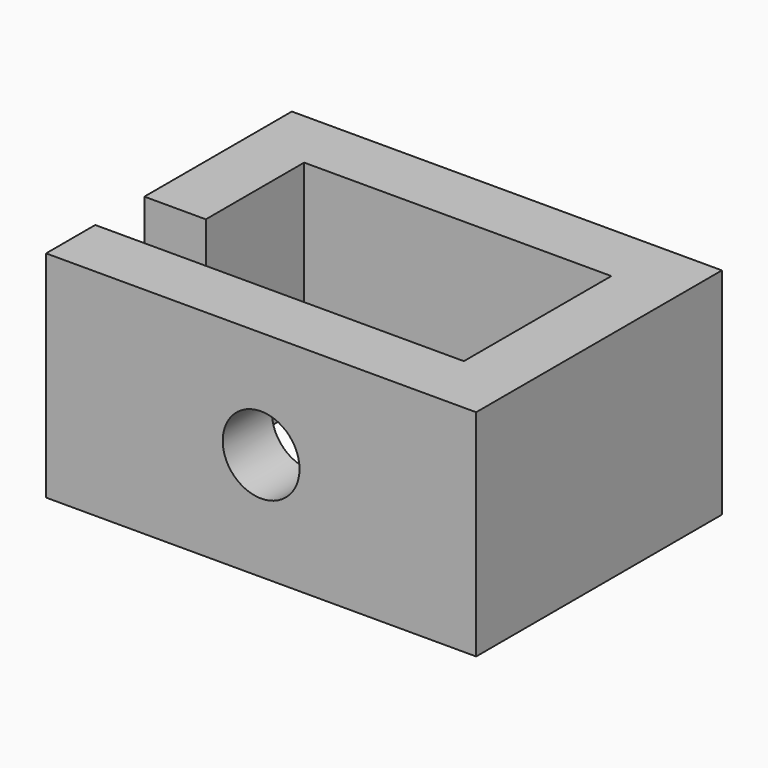
from build123d import *

# Parameters (mm, degrees)
F0_W     = 14
F0_H     = 10
F0_W_2   = 10
F0_H_2   = 6
F1_DEPTH = 7
F2_W     = 2
F2_H     = 2
F3_DEPTH = 10
F4_R     = 1.25
F5_DEPTH = 5


with BuildPart() as f1:
    # F0 (on Top) → F1 (new body)
    with BuildSketch(Plane.XY):
        Rectangle(F0_W, F0_H)
        Rectangle(F0_W_2, F0_H_2, mode=Mode.SUBTRACT)
    extrude(amount=F1_DEPTH)

    # F2 (on face) → F3 (cut)
    with BuildSketch(Plane.XY.offset(7)):
        with Locations((-6, -2)):
            Rectangle(F2_W, F2_H)
    extrude(amount=-F3_DEPTH, mode=Mode.SUBTRACT)

    # F4 (on face) → F5 (cut)
    with BuildSketch(Plane.XZ.offset(5)):
        with Locations((0, 3.5)):
            Circle(F4_R)
    extrude(amount=-F5_DEPTH, mode=Mode.SUBTRACT)


solid = f1.part
